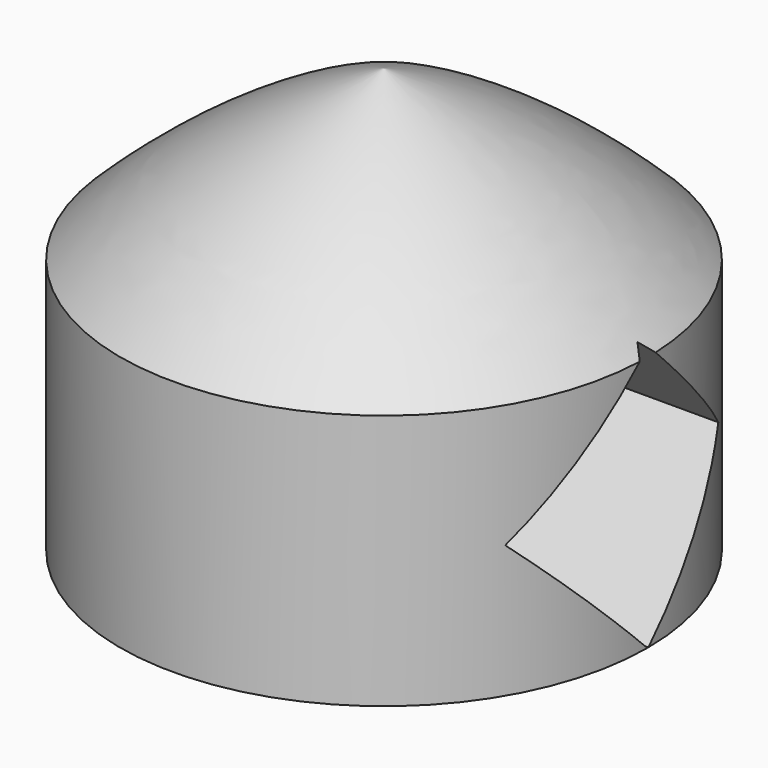
from build123d import *

# Parameters (mm, degrees)
PAD009_DEPTH = 10
PAD008_DEPTH = 10


with BuildPart() as body008:
    # Sketch017 → Pad009 (new body)
    with BuildSketch(Plane.YZ):
        Polygon((0, 7.525483), (-2.262742, 5.262742), (0, 3), (2.262742, 5.262742), align=None)
    extrude(amount=PAD009_DEPTH)


with BuildPart() as body008_1:
    # Body008 placement: moved
    add(body008.part.moved(Location((-11, 0, 0))))


with BuildPart() as body007:
    # Sketch016 → Pad008 (new body)
    with BuildSketch(Plane.YZ):
        Polygon((0, 7.525483), (-2.262742, 5.262742), (0, 3), (2.262742, 5.262742), align=None)
    extrude(amount=PAD008_DEPTH)


with BuildPart() as body007_1:
    # Body007 placement: moved
    add(body007.part.moved(Location((1, 0, 0))))


with BuildPart() as nose_with_props:
    # Sketch015 → Revolution001 (revolve)
    with BuildSketch(Plane.YZ):
        with BuildLine():
            Line((0, 3.010928), (4.483308, 3.010928))
            Line((4.483308, 3.010928), (4.483308, 7.357421))
            ThreePointArc((4.483308, 7.357421), (2.386171, 9.015985), (0, 10.222222))
            Line((0, 10.222222), (0, 3.010928))
        make_face()
    revolve(axis=Axis((0, 0, 0), (0, 0, 1)))

    # Cut001: cut Body007
    add(body007_1.part, mode=Mode.SUBTRACT)

    # Cut002: cut Body008
    add(body008_1.part, mode=Mode.SUBTRACT)


solid = nose_with_props.part
